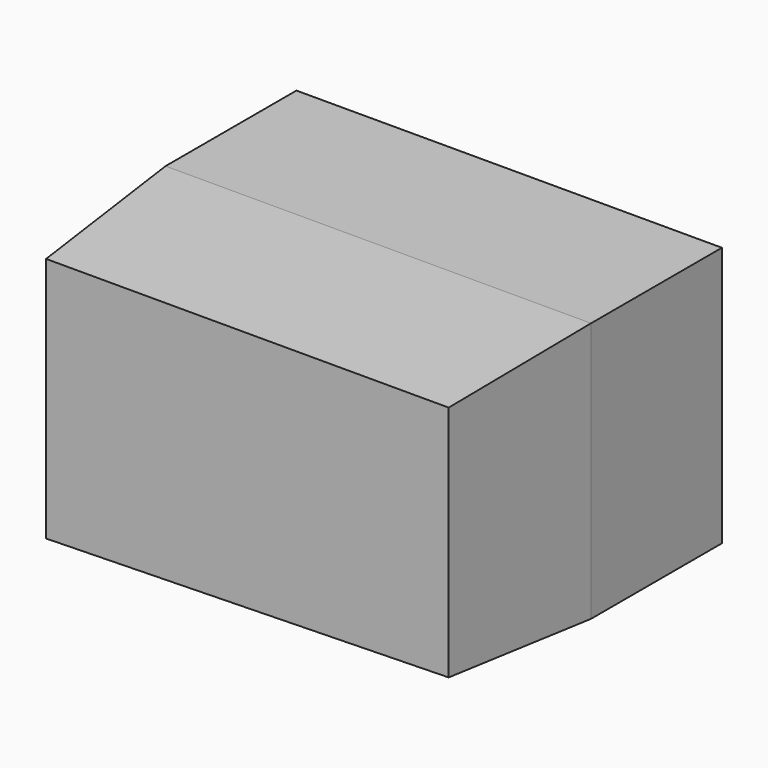
from build123d import *

# Parameters (mm, degrees)
F1_DEPTH      = 25.4
F1_TAPER      = 4
F1_DEPTH_BACK = 25.4


with BuildPart() as f1:
    # F0 (on Front) → F1 (new body, two sides)
    with BuildSketch(Plane.XZ) as f1_sk:
        Polygon((0, 0), (0, -41.8099462986), (66.0554021597, -40.3928682208), (66.0554021597, 0), align=None)
    extrude(amount=F1_DEPTH, taper=F1_TAPER)
    extrude(f1_sk.sketch, amount=-F1_DEPTH_BACK)


solid = f1.part
